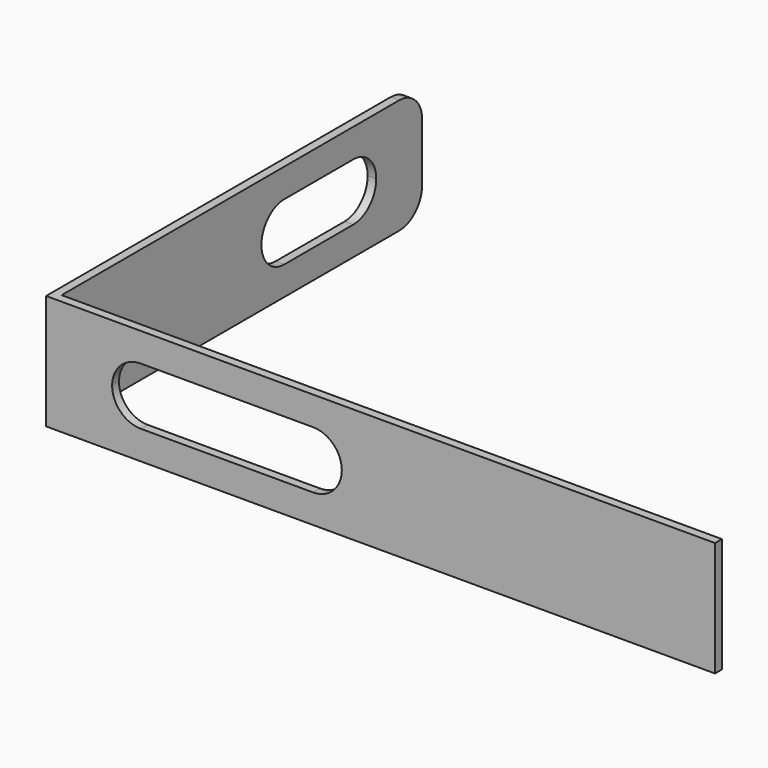
from build123d import *

# Parameters (mm, degrees)
F1_DEPTH = 1.5
F3_DEPTH = 1.5


with BuildPart() as f1:
    # F0 (on Front) → F1 (new body)
    with BuildSketch(Plane.XZ):
        with BuildLine():
            Line((0, 5), (0, 10))
            Line((0, 10), (-115, 10))
            Line((-115, 10), (-115, -10))
            Line((-115, -10), (0, -10))
            Line((0, -10), (0, -5))
            Line((0, -5), (-50, -5))
            ThreePointArc((-50, -5), (-53.535534, -3.535534), (-55, 0))
            ThreePointArc((-55, 0), (-53.535534, 3.535534), (-50, 5))
            Line((-50, 5), (0, 5))
        make_face()
        with BuildLine():
            ThreePointArc((-65, 0), (-66.464466, -3.535534), (-70, -5))
            Line((-70, -5), (-100, -5))
            ThreePointArc((-100, -5), (-103.535534, -3.535534), (-105, 0))
            ThreePointArc((-105, 0), (-103.535534, 3.535534), (-100, 5))
            Line((-100, 5), (-70, 5))
            ThreePointArc((-70, 5), (-66.464466, 3.535534), (-65, 0))
        make_face(mode=Mode.SUBTRACT)
        with BuildLine():
            Line((0, 0), (0, 5))
            Line((0, 5), (-50, 5))
            ThreePointArc((-50, 5), (-53.535534, 3.535534), (-55, 0))
            ThreePointArc((-55, 0), (-53.535534, -3.535534), (-50, -5))
            Line((-50, -5), (0, -5))
            Line((0, -5), (0, 0))
        make_face()
    extrude(amount=F1_DEPTH)

    # F2 (on face) → F3 (join)
    with BuildSketch(Plane(origin=(-115, 0, 0), x_dir=(0, -1, 0), z_dir=(-1, 0, 0))):
        with BuildLine():
            Line((1.5, -10), (1.5, 10))
            Line((1.5, 10), (-73.5, 10))
            ThreePointArc((-73.5, 10), (-77.035534, 8.535534), (-78.5, 5))
            Line((-78.5, 5), (-78.5, -5))
            ThreePointArc((-78.5, -5), (-77.035534, -8.535534), (-73.5, -10))
            Line((-73.5, -10), (1.5, -10))
        make_face()
        with BuildLine():
            Line((-48.5, -5), (-63.5, -5))
            ThreePointArc((-63.5, -5), (-67.035534, -3.535534), (-68.5, 0))
            ThreePointArc((-68.5, 0), (-67.035534, 3.535534), (-63.5, 5))
            Line((-63.5, 5), (-48.5, 5))
            ThreePointArc((-48.5, 5), (-44.964466, 3.535534), (-43.5, 0))
            ThreePointArc((-43.5, 0), (-44.964466, -3.535534), (-48.5, -5))
        make_face(mode=Mode.SUBTRACT)
    extrude(amount=F3_DEPTH)


solid = f1.part
